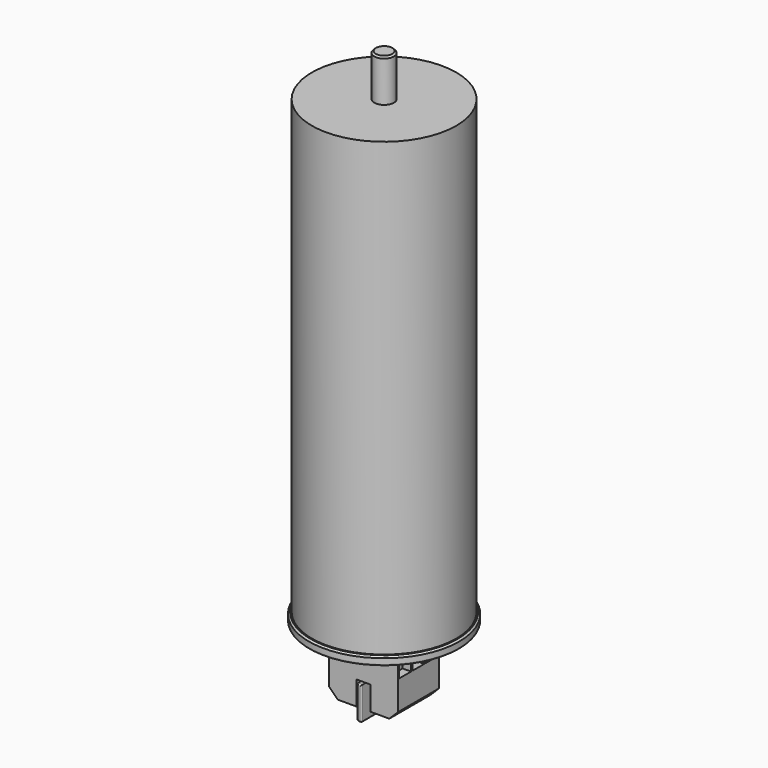
from build123d import *

# Parameters (mm, degrees)
F0_R      = 44.275
F1_DEPTH  = 5
F2_R      = 42.55
F3_DEPTH  = 266
F4_SIZE   = 1
F5_R      = 5.8
F6_DEPTH  = 25
F7_SIZE   = 1
F8_R      = 40.75
F9_DEPTH  = 5
F10_R     = 25.25
F11_DEPTH = 10
F12_W     = 40.4
F12_H     = 30.3
F13_DEPTH = 34.3
F14_W     = 8.2
F14_H     = 14.1
F15_DEPTH = 59.426
F16_SIZE  = 5
F17_R     = 3.25
F18_DEPTH = 11
F19_W     = 8.8
F19_H     = 11
F20_DEPTH = 5
F21_W     = 8.8
F21_H     = 11
F22_DEPTH = 5
F23_W     = 2.7
F23_H     = 36.5
F24_DEPTH = 19.5
F25_R     = 0.8
F26_R     = 0.8


with BuildPart() as f1:
    # F0 (on Top) → F1 (new body)
    with BuildSketch(Plane.XY):
        Circle(F0_R)
    extrude(amount=F1_DEPTH)

    # F2 (on face) → F3 (join)
    with BuildSketch(Plane.XY.offset(5)):
        Circle(F2_R)
    extrude(amount=F3_DEPTH)

    # F4
    f4_edges = [f1.edges().sort_by_distance(p)[0] for p in [
        (-44.275, 0, 5),
    ]]
    chamfer(f4_edges, length=F4_SIZE)

    # F5 (on face) → F6 (join)
    with BuildSketch(Plane.XY.offset(271)):
        Circle(F5_R)
    extrude(amount=F6_DEPTH)

    # F7
    f7_edges = [f1.edges().sort_by_distance(p)[0] for p in [
        (-5.8, 0, 296),
    ]]
    chamfer(f7_edges, length=F7_SIZE)

    # F8 (on face) → F9 (cut)
    with BuildSketch(Plane(origin=(0, 0, 0), x_dir=(1, 0, 0), z_dir=(0, 0, -1))):
        Circle(F8_R)
    extrude(amount=-F9_DEPTH, mode=Mode.SUBTRACT)

    # F26
    f26_edges = [f1.edges().sort_by_distance(p)[0] for p in [
        (-44.275, 0, 0),
        (-40.75, 0, 0),
    ]]
    fillet(f26_edges, radius=F26_R)


with BuildPart() as f11:
    # F10 (on face) → F11 (new body)
    with BuildSketch(Plane(origin=(0, 0, 5), x_dir=(1, 0, 0), z_dir=(0, 0, -1))):
        Circle(F10_R)
    extrude(amount=F11_DEPTH)

    # F12 (on face) → F13 (join)
    with BuildSketch(Plane(origin=(0, 0, -5), x_dir=(1, 0, 0), z_dir=(0, 0, -1))):
        Rectangle(F12_W, F12_H)
    extrude(amount=F13_DEPTH)

    # F14 (on face) → F15 (cut, through all)
    with BuildSketch(Plane(origin=(0, 15.15, 0), x_dir=(-1, 0, 0), z_dir=(0, 1, 0))):
        with Locations((0, -32.25)):
            Rectangle(F14_W, F14_H)
    extrude(amount=-F15_DEPTH, mode=Mode.SUBTRACT)

    # F16
    f16_edges = [f11.edges().sort_by_distance(p)[0] for p in [
        (-20.2, 0, -39.3),
        (20.2, 0, -39.3),
    ]]
    chamfer(f16_edges, length=F16_SIZE)

    # F17 (on face) → F18 (cut)
    with BuildSketch(Plane(origin=(0, 0, -39.3), x_dir=(1, 0, 0), z_dir=(0, 0, -1))):
        with Locations((-8.35, 0)):
            Circle(F17_R)
        with Locations((-8.35, 9.3)):
            Circle(F17_R)
        with Locations((-8.35, -9.3)):
            Circle(F17_R)
        with Locations((8.35, 0)):
            Circle(F17_R)
        with Locations((8.35, 9.3)):
            Circle(F17_R)
        with Locations((8.35, -9.3)):
            Circle(F17_R)
    extrude(amount=-F18_DEPTH, mode=Mode.SUBTRACT)

    # F19 (on face) → F20 (cut)
    with BuildSketch(Plane(origin=(-20.2, 0, 0), x_dir=(0, -1, 0), z_dir=(-1, 0, 0))):
        with Locations((0, -11.7)):
            Rectangle(F19_W, F19_H)
        with Locations((-9.8, -11.7)):
            Rectangle(F19_W, F19_H)
        with Locations((9.8, -11.7)):
            Rectangle(F19_W, F19_H)
    extrude(amount=-F20_DEPTH, mode=Mode.SUBTRACT)

    # F21 (on face) → F22 (cut)
    with BuildSketch(Plane.YZ.offset(20.2)):
        with Locations((0, -11.7)):
            Rectangle(F21_W, F21_H)
        with Locations((-9.8, -11.7)):
            Rectangle(F21_W, F21_H)
        with Locations((9.8, -11.7)):
            Rectangle(F21_W, F21_H)
    extrude(amount=-F22_DEPTH, mode=Mode.SUBTRACT)


with BuildPart() as f24:
    # F23 (on face) → F24 (new body)
    with BuildSketch(Plane(origin=(0, 0, -25.2), x_dir=(1, 0, 0), z_dir=(0, 0, -1))):
        Rectangle(F23_W, F23_H)
    extrude(amount=F24_DEPTH)

    # F25
    f25_edges = [f24.edges().sort_by_distance(p)[0] for p in [
        (1.35, -18.25, -34.95),
        (-1.35, -18.25, -34.95),
        (0, -18.25, -25.2),
        (0, -18.25, -44.7),
        (-1.35, 18.25, -34.95),
        (1.35, 18.25, -34.95),
        (0, 18.25, -25.2),
        (0, 18.25, -44.7),
        (-1.35, 0, -44.7),
        (1.35, 0, -44.7),
    ]]
    fillet(f25_edges, radius=F25_R)


solid = Compound([f1.part, f11.part, f24.part])
